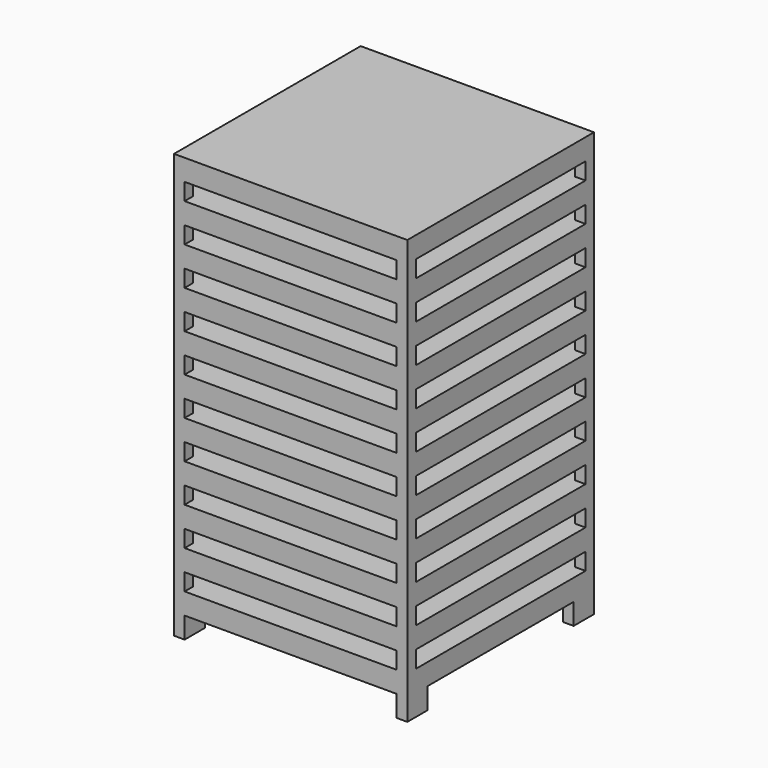
from build123d import *

# Parameters (mm, degrees)
F0_W     = 1000
F0_H     = 80
F1_DEPTH = 1100
F2_W     = 1000
F2_H     = 80
F2_W_2   = 860
F2_H_2   = 100
F3_DEPTH = 1100.001


with BuildPart() as f1:
    # F0 (on Front) → F1 (new body)
    with BuildSketch(Plane.XZ):
        Polygon((0, 2000), (0, 0), (50, 0), (50, 100), (1050, 100), (1050, 0), (1100, 0), (1100, 2000), align=None)
        with Locations((550, 240)):
            Rectangle(F0_W, F0_H, mode=Mode.SUBTRACT)
        with Locations((550, 420)):
            Rectangle(F0_W, F0_H, mode=Mode.SUBTRACT)
        with Locations((550, 600)):
            Rectangle(F0_W, F0_H, mode=Mode.SUBTRACT)
        with Locations((550, 780)):
            Rectangle(F0_W, F0_H, mode=Mode.SUBTRACT)
        with Locations((550, 960)):
            Rectangle(F0_W, F0_H, mode=Mode.SUBTRACT)
        with Locations((550, 1140)):
            Rectangle(F0_W, F0_H, mode=Mode.SUBTRACT)
        with Locations((550, 1320)):
            Rectangle(F0_W, F0_H, mode=Mode.SUBTRACT)
        with Locations((550, 1500)):
            Rectangle(F0_W, F0_H, mode=Mode.SUBTRACT)
        with Locations((550, 1680)):
            Rectangle(F0_W, F0_H, mode=Mode.SUBTRACT)
        with Locations((550, 1860)):
            Rectangle(F0_W, F0_H, mode=Mode.SUBTRACT)
    extrude(amount=F1_DEPTH)

    # F2 (on face) → F3 (cut, through all)
    with BuildSketch(Plane(origin=(0, 0, 0), x_dir=(0, -1, 0), z_dir=(-1, 0, 0))):
        with Locations((550, 1860)):
            Rectangle(F2_W, F2_H)
        with Locations((550, 1680)):
            Rectangle(F2_W, F2_H)
        with Locations((550, 1500)):
            Rectangle(F2_W, F2_H)
        with Locations((550, 1320)):
            Rectangle(F2_W, F2_H)
        with Locations((550, 1140)):
            Rectangle(F2_W, F2_H)
        with Locations((550, 960)):
            Rectangle(F2_W, F2_H)
        with Locations((550, 780)):
            Rectangle(F2_W, F2_H)
        with Locations((550, 600)):
            Rectangle(F2_W, F2_H)
        with Locations((550, 420)):
            Rectangle(F2_W, F2_H)
        with Locations((550, 240)):
            Rectangle(F2_W, F2_H)
        with Locations((550, 50)):
            Rectangle(F2_W_2, F2_H_2)
    extrude(amount=-F3_DEPTH, mode=Mode.SUBTRACT)


solid = f1.part
